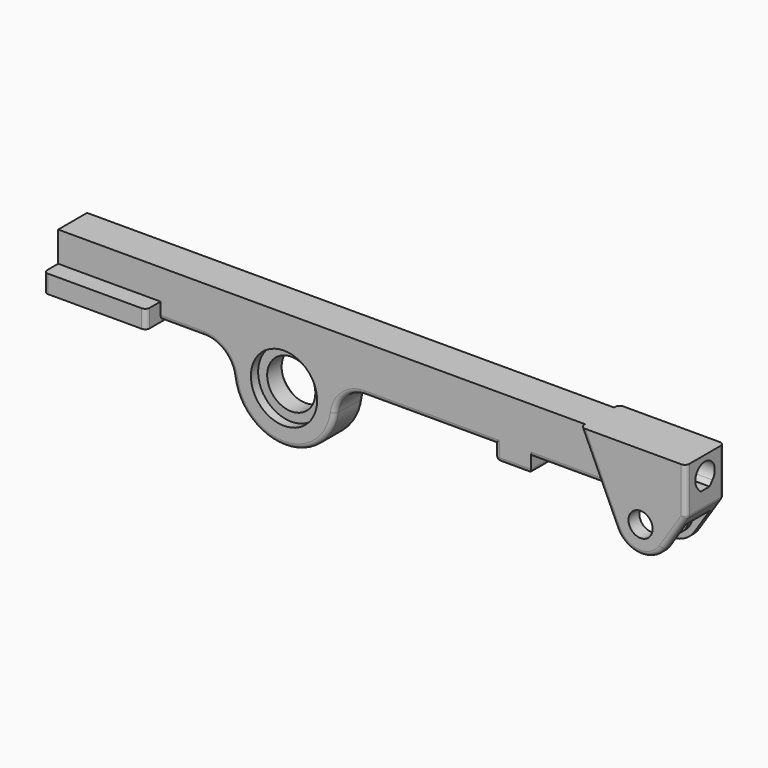
from build123d import *

# Parameters (mm, degrees)
CYLINDER002_R             = 11
CYLINDER002_DEPTH         = 10
CYLINDER003_R             = 8
CYLINDER003_DEPTH         = 28
CYLINDER004_R             = 11
CYLINDER004_DEPTH         = 10
CYLINDER015_R             = 4
CYLINDER015_DEPTH         = 31
CYLINDER017_R             = 7
CYLINDER017_DEPTH         = 2
CYLINDER016_R             = 7
CYLINDER016_DEPTH         = 2
CYLINDER013_R             = 13
CYLINDER013_DEPTH         = 10
CYLINDER023_R             = 1.7
CYLINDER023_DEPTH         = 21
BOX004_W                  = 23
BOX004_H                  = 5.2
BOX004_DEPTH              = 3
PRISM001_DEPTH            = 3
FUSION007_ROLL_ANGLE      = 180
FUSION007_PLACEMENT_ANGLE = 90
EXTRUDE003_DEPTH          = 275
CYLINDER001_R             = 11
CYLINDER001_DEPTH         = 10
BOX001_W                  = 34
BOX001_H                  = 24
BOX001_DEPTH              = 6
EXTRUDE002_DEPTH          = 8
CYLINDER018_R             = 2.9
CYLINDER018_DEPTH         = 2
CYLINDER019_R             = 2.9
CYLINDER019_DEPTH         = 2
EXTRUDE001_DEPTH          = 6
FILLET002_R               = 1.5


with BuildPart() as cilindro002:
    # Cylinder002 → Cylinder002 (new body)
    with BuildSketch(Plane(origin=(83, 3, 55), x_dir=(1, 0, 0), z_dir=(0, 1, 0))):
        Circle(CYLINDER002_R)
    extrude(amount=CYLINDER002_DEPTH)


with BuildPart() as cilindro003:
    # Cylinder003 → Cylinder003 (new body)
    with BuildSketch(Plane(origin=(83, -14, 55), x_dir=(1, 0, 0), z_dir=(0, 1, 0))):
        Circle(CYLINDER003_R)
    extrude(amount=CYLINDER003_DEPTH)


with BuildPart() as cilindro004:
    # Cylinder004 → Cylinder004 (new body)
    with BuildSketch(Plane(origin=(83, -3, 55), x_dir=(1, 0, 0), z_dir=(0, -1, 0))):
        Circle(CYLINDER004_R)
    extrude(amount=CYLINDER004_DEPTH)


with BuildPart() as cilindro015:
    # Cylinder015 → Cylinder015 (new body)
    with BuildSketch(Plane(origin=(203, 15, 55), x_dir=(1, 0, 0), z_dir=(0, -1, 0))):
        Circle(CYLINDER015_R)
    extrude(amount=CYLINDER015_DEPTH)


with BuildPart() as cilindro017:
    # Cylinder017 → Cylinder017 (new body)
    with BuildSketch(Plane(origin=(203, -3.5, 55), x_dir=(1, 0, 0), z_dir=(0, -1, 0))):
        Circle(CYLINDER017_R)
    extrude(amount=CYLINDER017_DEPTH)


with BuildPart() as fusion004:
    # Cylinder016 → Cylinder016 (new body)
    with BuildSketch(Plane(origin=(203, 5.5, 55), x_dir=(1, 0, 0), z_dir=(0, -1, 0))):
        Circle(CYLINDER016_R)
    extrude(amount=CYLINDER016_DEPTH)

    # Fusion004: union Cilindro017
    add(cilindro017.part)


with BuildPart() as cut005:
    # Cylinder013 → Cylinder013 (new body)
    with BuildSketch(Plane(origin=(203, 5, 55), x_dir=(1, 0, 0), z_dir=(0, -1, 0))):
        Circle(CYLINDER013_R)
    extrude(amount=CYLINDER013_DEPTH)

    # Cut005: cut Fusion004
    add(fusion004.part, mode=Mode.SUBTRACT)


with BuildPart() as cilindro023:
    # Cylinder023 → Cylinder023 (new body)
    with BuildSketch(Plane.XY.offset(-6)):
        Circle(CYLINDER023_R)
    extrude(amount=CYLINDER023_DEPTH)


with BuildPart() as cubo004:
    # Box004 → Box004 (new body)
    with BuildSketch(Plane(origin=(0, -2.6, 0), x_dir=(1, 0, 0), z_dir=(0, 0, 1))):
        with Locations((11.5, 2.6)):
            Rectangle(BOX004_W, BOX004_H)
    extrude(amount=BOX004_DEPTH)


with BuildPart() as hueco_tornillo001:
    # Prism001 → Prism001 (new body)
    with BuildSketch(Plane.XY):
        Polygon((3, 0), (1.5, 2.598076), (-1.5, 2.598076), (-3, 0), (-1.5, -2.598076), (1.5, -2.598076), align=None)
    extrude(amount=PRISM001_DEPTH)

    # Fusion007: union Cilindro023, Cubo004
    add(cilindro023.part)
    add(cubo004.part)


with BuildPart() as hueco_tornillo001_1:
    # Fusion007 roll: moved
    add(hueco_tornillo001.part.rotate(Axis((0, 0, 0), (1, 0, 0)), FUSION007_ROLL_ANGLE))


with BuildPart() as hueco_tornillo001_2:
    # Fusion007 placement: moved
    add(hueco_tornillo001_1.part.moved(Location((159, 0, 62))).rotate(Axis((159, 0, 62), (0, 0, 1)), FUSION007_PLACEMENT_ANGLE))


with BuildPart() as extrude003:
    # Sketch003 → Extrude003 (new body)
    with BuildSketch(Plane.YZ):
        with BuildLine():
            ThreePointArc((3.10248, -2.60329), (0, 4.05), (-3.10248, -2.60329))
            Line((-3.10248, -2.60329), (-1.888546, -4.05))
            Line((-1.888546, -4.05), (0, -4.05))
            Line((0, -4.05), (1.888546, -4.05))
            Line((3.10248, -2.60329), (1.888546, -4.05))
        make_face()
    extrude(amount=EXTRUDE003_DEPTH)


with BuildPart() as extrude003_1:
    # Extrude003 placement: moved
    add(extrude003.part.moved(Location((0, 0, 71))))


with BuildPart() as fusion:
    # Cylinder001 → Cylinder001 (new body)
    with BuildSketch(Plane(origin=(83, -3, 55), x_dir=(1, 0, 0), z_dir=(0, -1, 0))):
        Circle(CYLINDER001_R)
    extrude(amount=CYLINDER001_DEPTH)

    # Fusion: union Cilindro002, Cilindro003, Cilindro004, Cilindro015, Cut005, hueco_tornillo001, Extrude003
    add(cilindro002.part)
    add(cilindro003.part)
    add(cilindro004.part)
    add(cilindro015.part)
    add(cut005.part)
    add(hueco_tornillo001_2.part)
    add(extrude003_1.part)


with BuildPart() as cubo001:
    # Box001 → Box001 (new body)
    with BuildSketch(Plane(origin=(8, -12, 61), x_dir=(1, 0, 0), z_dir=(0, 0, 1))):
        with Locations((17, 12)):
            Rectangle(BOX001_W, BOX001_H)
    extrude(amount=BOX001_DEPTH)


with BuildPart() as extrude002:
    # Sketch002 → Extrude002 (new body, symmetric)
    with BuildSketch(Plane.XZ):
        with BuildLine():
            ThreePointArc((194.820389, 51.245808), (202.331926, 46.02483), (210.533656, 50.076178))
            Line((210.533656, 50.076178), (218, 61.5))
            Line((218, 61.5), (218, 77))
            Line((203, 77), (218, 77))
            Line((183, 77), (203, 77))
            Line((183, 77), (194.820389, 51.245808))
        make_face()
    extrude(amount=EXTRUDE002_DEPTH, both=True)


with BuildPart() as cilindro018:
    # Cylinder018 → Cylinder018 (new body)
    with BuildSketch(Plane(origin=(35, 6, 61), x_dir=(1, 0, 0), z_dir=(0, 0, -1))):
        Circle(CYLINDER018_R)
    extrude(amount=CYLINDER018_DEPTH)


with BuildPart() as cilindro019:
    # Cylinder019 → Cylinder019 (new body)
    with BuildSketch(Plane(origin=(15, -6, 61), x_dir=(1, 0, 0), z_dir=(0, 0, -1))):
        Circle(CYLINDER019_R)
    extrude(amount=CYLINDER019_DEPTH)


with BuildPart() as fillet002:
    # Sketch001 → Extrude001 (new body, symmetric)
    with BuildSketch(Plane.XZ):
        with BuildLine():
            Line((8, 77), (218, 77))
            Line((218, 77), (218, 61.5))
            Line((165, 61.5), (218, 61.5))
            Line((165, 56.5), (165, 61.5))
            Line((153, 56.5), (165, 56.5))
            Line((153, 61.5), (153, 56.5))
            Line((109.772187, 61.5), (153, 61.5))
            ThreePointArc((109.772187, 61.5), (103.17533, 59.015416), (99.856562, 52.796296))
            ThreePointArc((66.143438, 52.796296), (83, 38), (99.856562, 52.796296))
            ThreePointArc((66.143438, 52.796296), (62.82467, 59.015416), (56.227813, 61.5))
            Line((8, 61.5), (56.227813, 61.5))
            Line((8, 77), (8, 61.5))
        make_face()
    extrude(amount=EXTRUDE001_DEPTH, both=True)

    # Fusion001: union Cubo001, Extrude002, Cilindro018, Cilindro019
    add(cubo001.part)
    add(extrude002.part)
    add(cilindro018.part)
    add(cilindro019.part)

    # Cut: cut Fusion
    add(fusion.part, mode=Mode.SUBTRACT)

    # Fillet002
    fillet002_edges = [fillet002.edges().sort_by_distance(p)[0] for p in [
        (177.557014, -6, 61.5),
        (49.113906, -6, 61.5),
        (62.82467, -6, 59.015416),
        (159, -6, 56.5),
        (83, -6, 38),
        (153, -6, 59),
        (103.17533, -6, 59.015416),
        (131.386094, -6, 61.5),
        (8, 12, 64),
        (8, -12, 64),
        (188.910194, 8, 64.122904),
        (188.910194, -8, 64.122904),
        (42, 12, 64),
        (42, -12, 64),
        (177.557014, 6, 61.5),
        (49.113906, 6, 61.5),
        (165, 0, 56.5),
        (165, 6, 59),
        (62.82467, 6, 59.015416),
        (153, 0, 56.5),
        (159, 6, 56.5),
        (83, 6, 38),
        (153, 6, 59),
        (103.17533, 6, 59.015416),
        (131.386094, 6, 61.5),
        (202.331926, -8, 46.02483),
        (218, -8, 69.25),
        (214.266828, -8, 55.788089),
        (218, 8, 69.25),
        (218, 0, 61.5),
        (202.331926, 8, 46.02483),
        (214.266828, 8, 55.788089),
    ]]
    fillet(fillet002_edges, radius=FILLET002_R)


solid = fillet002.part
